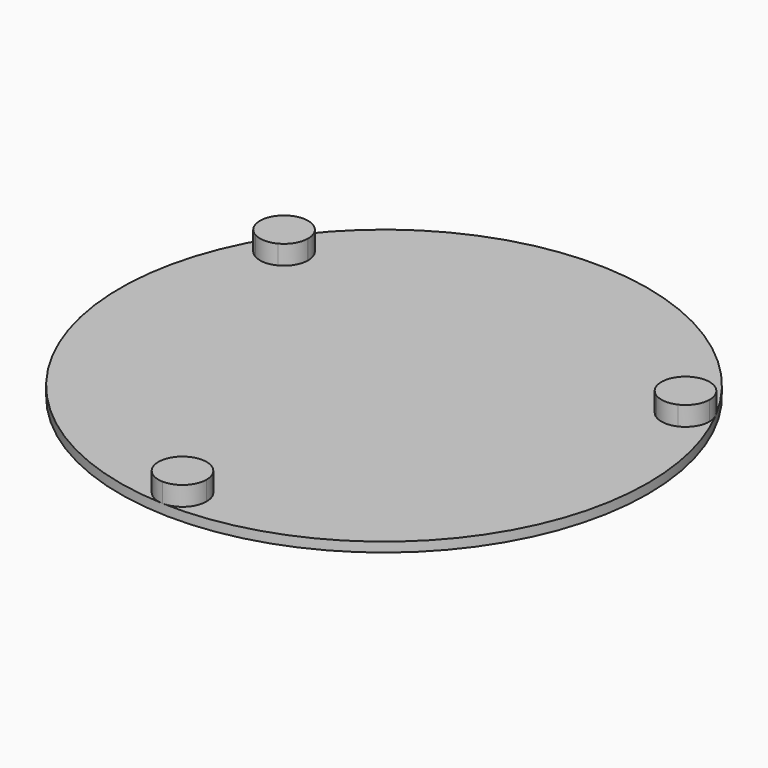
from build123d import *

# Parameters (mm, degrees)
F0_R     = 54.8273186888
F1_DEPTH = 2
F3_DEPTH = 4


with BuildPart() as f1:
    # F0 (on Top) → F1 (new body)
    with BuildSketch(Plane.XY):
        Circle(F0_R)
    extrude(amount=F1_DEPTH)

    # F2 (on face) → F3 (join)
    with BuildSketch(Plane.XY.offset(2)):
        with BuildLine():
            ThreePointArc((-42.0965394575, 26.6578891404), (-40.7060063095, 28.7364357228), (-39.2129370001, 30.742596825))
            ThreePointArc((-39.2129370001, 30.742596825), (-43.0692309342, 31.5623637597), (-46.3207823167, 29.3329166667))
            ThreePointArc((-46.3207823167, 29.3329166667), (-46.9460339061, 25.4403491644), (-44.5562536731, 22.3047516538))
            ThreePointArc((-44.5562536731, 22.3047516538), (-43.3810337685, 24.512192821), (-42.0965394575, 26.6578891404))
        make_face()
        with BuildLine():
            ThreePointArc((-42.0965394575, 26.6578891404), (-43.3810337685, 24.512192821), (-44.5562536731, 22.3047516538))
            ThreePointArc((-44.5562536731, 22.3047516538), (-42.1756276327, 21.6585146735), (-39.7757515223, 22.2291259542))
            Line((-39.7757515223, 22.2291259542), (-42.0965394575, 26.6578891404))
        make_face()
        with BuildLine():
            ThreePointArc((-37.0965394575, 26.6578891404), (-37.6570568138, 28.9581051861), (-39.2129370001, 30.742596825))
            ThreePointArc((-39.2129370001, 30.742596825), (-40.7060063095, 28.7364357228), (-42.0965394575, 26.6578891404))
            Line((-42.0965394575, 26.6578891404), (-37.1007240633, 26.453368856))
            ThreePointArc((-37.1007240633, 26.453368856), (-37.0975857184, 26.5556075956), (-37.0965394575, 26.6578891404))
        make_face()
        with BuildLine():
            ThreePointArc((-39.7757515223, 22.2291259542), (-37.8722965557, 23.9828616814), (-37.1007240633, 26.453368856))
            Line((-37.1007240633, 26.453368856), (-42.0965394575, 26.6578891404))
            Line((-42.0965394575, 26.6578891404), (-39.7757515223, 22.2291259542))
        make_face()
        with BuildLine():
            ThreePointArc((44.1346789356, 23.1277280114), (45.2394865049, 20.8842176893), (46.2303383288, 18.5881011866))
            ThreePointArc((46.2303383288, 18.5881011866), (48.3464657872, 20.4331312851), (49.1346789356, 23.1277280114))
            ThreePointArc((49.1346789356, 23.1277280114), (48.9897699045, 24.3227559121), (48.5634422622, 25.4485156788))
            ThreePointArc((48.5634422622, 25.4485156788), (45.5050057176, 27.9362833569), (41.5946083938, 27.4344717515))
            ThreePointArc((41.5946083938, 27.4344717515), (42.9186985697, 25.3129808755), (44.1346789356, 23.1277280114))
        make_face()
        with BuildLine():
            Line((39.1388635414, 23.3322482958), (44.1346789356, 23.1277280114))
            ThreePointArc((44.1346789356, 23.1277280114), (42.9186985697, 25.3129808755), (41.5946083938, 27.4344717515))
            ThreePointArc((41.5946083938, 27.4344717515), (39.8446377318, 25.6959076137), (39.1388635414, 23.3322482958))
        make_face()
        with BuildLine():
            Line((41.4596514766, 18.9034851096), (44.1346789356, 23.1277280114))
            Line((44.1346789356, 23.1277280114), (39.1388635414, 23.3322482958))
            ThreePointArc((39.1388635414, 23.3322482958), (39.7059157494, 20.8069400762), (41.4596514766, 18.9034851096))
        make_face()
        with BuildLine():
            ThreePointArc((41.4596514766, 18.9034851096), (43.804855356, 18.1386182304), (46.2303383288, 18.5881011866))
            ThreePointArc((46.2303383288, 18.5881011866), (45.2394865049, 20.8842176893), (44.1346789356, 23.1277280114))
            Line((44.1346789356, 23.1277280114), (41.4596514766, 18.9034851096))
        make_face()
        with BuildLine():
            ThreePointArc((-7.0174013286, -49.3306980116), (-4.5334801954, -49.620653412), (-2.0381394781, -49.7856171518))
            Line((-2.0381394781, -49.7856171518), (-4.3589274133, -45.3568539656))
            ThreePointArc((-4.3589274133, -45.3568539656), (-6.1939235009, -47.0054266627), (-7.0174013286, -49.3306980116))
        make_face()
        with BuildLine():
            Line((-4.3589274133, -45.3568539656), (-2.0381394781, -49.7856171518))
            Line((-2.0381394781, -49.7856171518), (0.6368879809, -45.56137425))
            ThreePointArc((0.6368879809, -45.56137425), (-1.8336191937, -44.7898017576), (-4.3589274133, -45.3568539656))
        make_face()
        with BuildLine():
            ThreePointArc((2.9618605219, -49.7856171518), (2.9618067109, -49.7624200289), (2.9616452793, -49.7392234053))
            ThreePointArc((2.9616452793, -49.7392234053), (0.4623351989, -49.8251736965), (-2.0381394781, -49.7856171518))
            ThreePointArc((-2.0381394781, -49.7856171518), (-4.5334801954, -49.620653412), (-7.0174013286, -49.3306980116))
            ThreePointArc((-7.0174013286, -49.3306980116), (-5.799193279, -53.080230074), (-2.2426596199, -54.7814325519))
            ThreePointArc((-2.2426596199, -54.7814325519), (1.4243306872, -53.3927351641), (2.9618605219, -49.7856171518))
        make_face()
        with BuildLine():
            ThreePointArc((-2.0381394781, -49.7856171518), (0.4623351989, -49.8251736965), (2.9616452793, -49.7392234053))
            ThreePointArc((2.9616452793, -49.7392234053), (2.3309899009, -47.3544222872), (0.6368879809, -45.56137425))
            Line((0.6368879809, -45.56137425), (-2.0381394781, -49.7856171518))
        make_face()
    extrude(amount=F3_DEPTH)


solid = f1.part
